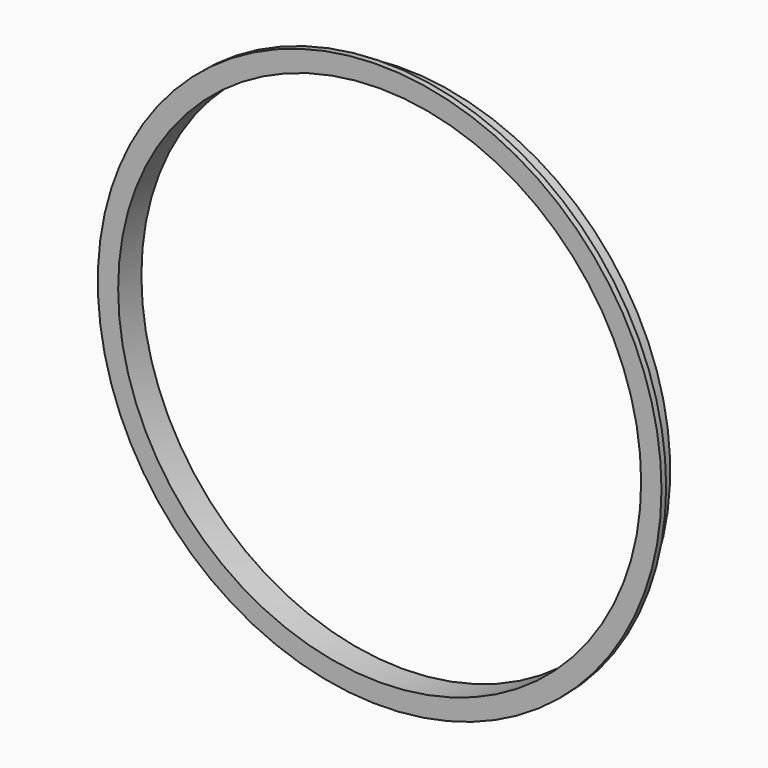
from build123d import *

# Parameters (mm, degrees)
F0_R     = 97
F0_R_2   = 90
F1_DEPTH = 10
F2_R     = 97
F2_R_2   = 92
F3_DEPTH = 8


with BuildPart() as f1:
    # F0 (on Front) → F1 (new body)
    with BuildSketch(Plane.XZ):
        Circle(F0_R)
        Circle(F0_R_2, mode=Mode.SUBTRACT)
    extrude(amount=F1_DEPTH)

    # F2 (on face) → F3 (cut)
    with BuildSketch(Plane(origin=(0, 0, 0), x_dir=(-1, 0, 0), z_dir=(0, 1, 0))):
        Circle(F2_R)
        Circle(F2_R_2, mode=Mode.SUBTRACT)
    extrude(amount=-F3_DEPTH, mode=Mode.SUBTRACT)


solid = f1.part
